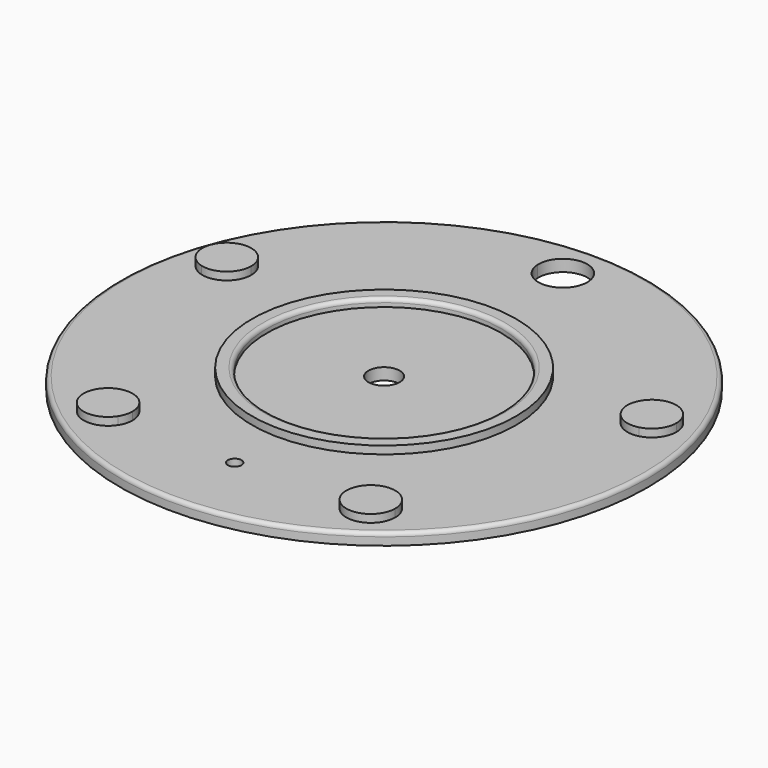
from build123d import *

# Parameters (mm, degrees)
F0_R     = 67.5
F0_R_2   = 33.75
F1_DEPTH = 3
F0_R_3   = 30
F0_R_4   = 4
F2_DEPTH = 5
F3_START = 1
F0_R_5   = 1.75
F3_DEPTH = 2
F4_R     = 1


with BuildPart() as f1:
    # F0 (on Top) → F1 (new body)
    with BuildSketch(Plane.XY):
        Circle(F0_R)
        with BuildLine():
            ThreePointArc((-6.240649333, 56.8082458443), (-0.1709410263, 63.3976618959), (6.25, 57.15))
            ThreePointArc((6.25, 57.15), (6.2476618959, 56.9790589737), (6.240649333, 56.8082458443))
            ThreePointArc((6.240649333, 56.8082458443), (33.5919271685, 46.2353212285), (52.0993856897, 23.4899236005))
            ThreePointArc((52.0993856897, 23.4899236005), (57.8868692347, 22.8152624917), (60.6028799063, 17.6603212285))
            ThreePointArc((60.6028799063, 17.6603212285), (59.3068679409, 13.8497435095), (55.9563190893, 11.6195031725))
            ThreePointArc((55.9563190893, 11.6195031725), (56.8507965465, 5.8403280749), (57.15, 0))
            ThreePointArc((57.15, 0), (52.2635598843, -23.1223443496), (38.4398404822, -42.290674666))
            ThreePointArc((38.4398404822, -42.290674666), (39.480983044, -44.1421129506), (39.8419271685, -46.2353212285))
            ThreePointArc((39.8419271685, -46.2353212285), (35.3599862925, -52.2300244684), (28.3422577496, -49.6269979513))
            ThreePointArc((28.3422577496, -49.6269979513), (0, -57.15), (-28.3422577496, -49.6269979513))
            ThreePointArc((-28.3422577496, -49.6269979513), (-37.2655849953, -51.2916774434), (-38.4398404822, -42.290674666))
            ThreePointArc((-38.4398404822, -42.290674666), (-54.3528799063, -17.6603212285), (-55.9563190893, 11.6195031725))
            ThreePointArc((-55.9563190893, 11.6195031725), (-60.2969831331, 19.5916774434), (-52.0993856897, 23.4899236005))
            ThreePointArc((-52.0993856897, 23.4899236005), (-33.5919271685, 46.2353212285), (-6.240649333, 56.8082458443))
        make_face(mode=Mode.SUBTRACT)
        with BuildLine():
            ThreePointArc((6.240649333, 56.8082458443), (0, 50.9), (-6.240649333, 56.8082458443))
            ThreePointArc((-6.240649333, 56.8082458443), (-33.5919271685, 46.2353212285), (-52.0993856897, 23.4899236005))
            ThreePointArc((-52.0993856897, 23.4899236005), (-49.1979386431, 21.1943105569), (-48.1028799063, 17.6603212285))
            ThreePointArc((-48.1028799063, 17.6603212285), (-50.5423021872, 12.7063331939), (-55.9563190893, 11.6195031725))
            ThreePointArc((-55.9563190893, 11.6195031725), (-54.3528799063, -17.6603212285), (-38.4398404822, -42.290674666))
            ThreePointArc((-38.4398404822, -42.290674666), (-31.4987188906, -40.346265353), (-27.3419271685, -46.2353212285))
            ThreePointArc((-27.3419271685, -46.2353212285), (-27.5972239286, -48.0033803525), (-28.3422577496, -49.6269979513))
            ThreePointArc((-28.3422577496, -49.6269979513), (0, -57.15), (28.3422577496, -49.6269979513))
            ThreePointArc((28.3422577496, -49.6269979513), (29.9182693417, -41.1789650137), (38.4398404822, -42.290674666))
            ThreePointArc((38.4398404822, -42.290674666), (52.2635598843, -23.1223443496), (57.15, 0))
            ThreePointArc((57.15, 0), (56.8507965465, 5.8403280749), (55.9563190893, 11.6195031725))
            ThreePointArc((55.9563190893, 11.6195031725), (48.4087766794, 15.7289650137), (52.0993856897, 23.4899236005))
            ThreePointArc((52.0993856897, 23.4899236005), (33.5919271685, 46.2353212285), (6.240649333, 56.8082458443))
        make_face()
        Polygon((3.2331615075, -47.75), (1.6165807537, -50.55), (-1.6165807537, -50.55), (-3.2331615075, -47.75), (-1.6165807537, -44.95), (1.6165807537, -44.95), align=None, mode=Mode.SUBTRACT)
        Circle(F0_R_2, mode=Mode.SUBTRACT)
    extrude(amount=F1_DEPTH)



with BuildPart() as f1b:
    # F0 (on Top) → F1, piece 2 (new body)
    with BuildSketch(Plane.XY):
        Circle(F0_R_3)
        Circle(F0_R_4, mode=Mode.SUBTRACT)
    extrude(amount=F1_DEPTH)


with BuildPart() as f1_1:
    add(f1.part)

    add(f1b.part)  # F2 merges F1b
    # F0 (on Top) → F2 (join)
    with BuildSketch(Plane.XY):
        Circle(F0_R_2)
        Circle(F0_R_3, mode=Mode.SUBTRACT)
        with BuildLine():
            ThreePointArc((-48.1028799063, 17.6603212285), (-49.1979386431, 21.1943105569), (-52.0993856897, 23.4899236005))
            ThreePointArc((-52.0993856897, 23.4899236005), (-54.3528799063, 17.6603212285), (-55.9563190893, 11.6195031725))
            ThreePointArc((-55.9563190893, 11.6195031725), (-50.5423021872, 12.7063331939), (-48.1028799063, 17.6603212285))
        make_face()
        with BuildLine():
            ThreePointArc((-55.9563190893, 11.6195031725), (-54.3528799063, 17.6603212285), (-52.0993856897, 23.4899236005))
            ThreePointArc((-52.0993856897, 23.4899236005), (-60.2969831331, 19.5916774434), (-55.9563190893, 11.6195031725))
        make_face()
        with BuildLine():
            ThreePointArc((60.6028799063, 17.6603212285), (57.8868692347, 22.8152624917), (52.0993856897, 23.4899236005))
            ThreePointArc((52.0993856897, 23.4899236005), (54.3528799063, 17.6603212285), (55.9563190893, 11.6195031725))
            ThreePointArc((55.9563190893, 11.6195031725), (59.3068679409, 13.8497435095), (60.6028799063, 17.6603212285))
        make_face()
        with BuildLine():
            ThreePointArc((55.9563190893, 11.6195031725), (54.3528799063, 17.6603212285), (52.0993856897, 23.4899236005))
            ThreePointArc((52.0993856897, 23.4899236005), (48.4087766794, 15.7289650137), (55.9563190893, 11.6195031725))
        make_face()
        with BuildLine():
            ThreePointArc((28.3422577496, -49.6269979513), (33.5919271685, -46.2353212285), (38.4398404822, -42.290674666))
            ThreePointArc((38.4398404822, -42.290674666), (29.9182693417, -41.1789650137), (28.3422577496, -49.6269979513))
        make_face()
        with BuildLine():
            ThreePointArc((39.8419271685, -46.2353212285), (39.480983044, -44.1421129506), (38.4398404822, -42.290674666))
            ThreePointArc((38.4398404822, -42.290674666), (33.5919271685, -46.2353212285), (28.3422577496, -49.6269979513))
            ThreePointArc((28.3422577496, -49.6269979513), (35.3599862925, -52.2300244684), (39.8419271685, -46.2353212285))
        make_face()
        with BuildLine():
            ThreePointArc((-27.3419271685, -46.2353212285), (-31.4987188906, -40.346265353), (-38.4398404822, -42.290674666))
            ThreePointArc((-38.4398404822, -42.290674666), (-33.5919271685, -46.2353212285), (-28.3422577496, -49.6269979513))
            ThreePointArc((-28.3422577496, -49.6269979513), (-27.5972239286, -48.0033803525), (-27.3419271685, -46.2353212285))
        make_face()
        with BuildLine():
            ThreePointArc((-28.3422577496, -49.6269979513), (-33.5919271685, -46.2353212285), (-38.4398404822, -42.290674666))
            ThreePointArc((-38.4398404822, -42.290674666), (-37.2655849953, -51.2916774434), (-28.3422577496, -49.6269979513))
        make_face()
    extrude(amount=F2_DEPTH)

    # F0 (on Top) → F3 (join)
    with BuildSketch(Plane.XY.offset(F3_START)):
        Polygon((-1.6165807537, -50.55), (1.6165807537, -50.55), (3.2331615075, -47.75), (1.6165807537, -44.95), (-1.6165807537, -44.95), (-3.2331615075, -47.75), align=None)
        with Locations((0, -47.75)):
            Circle(F0_R_5, mode=Mode.SUBTRACT)
        Polygon((-1.6165807537, -50.55), (1.6165807537, -50.55), (3.2331615075, -47.75), (1.6165807537, -44.95), (-1.6165807537, -44.95), (-3.2331615075, -47.75), align=None)
        with Locations((0, -47.75)):
            Circle(F0_R_5, mode=Mode.SUBTRACT)
    extrude(amount=F3_DEPTH)

    # F4
    f4_edges = [f1_1.edges().sort_by_distance(p)[0] for p in [
        (-67.5, 0, 3),
        (-30, 0, 5),
    ]]
    fillet(f4_edges, radius=F4_R)


solid = f1_1.part
